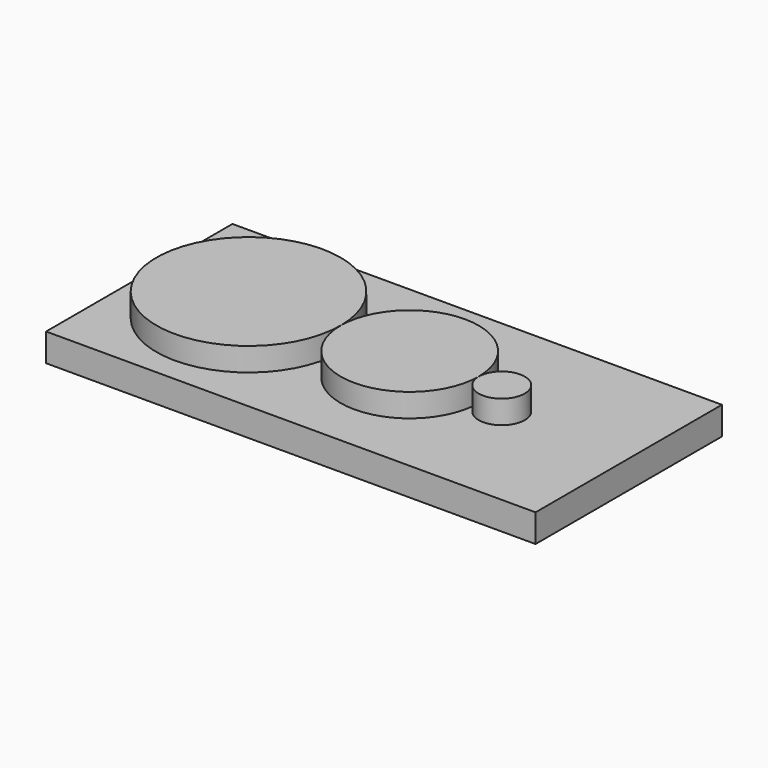
from build123d import *

# Parameters (mm, degrees)
F1_R     = 20.0025
F2_DEPTH = 5.08
F0_W     = 106.338516
F0_H     = 50.608118
F3_DEPTH = 6.07379


with BuildPart() as f2:
    # F1 (on face) → F2 (new body)
    with BuildSketch(Plane.XY):
        with BuildLine():
            ThreePointArc((30.580322, 0), (25.576522, 5.0038), (20.572722, 0))
            ThreePointArc((20.572722, 0), (25.576522, -5.0038), (30.580322, 0))
        make_face()
        with BuildLine():
            ThreePointArc((20.572722, 0), (5.574022, 14.9987), (-9.424678, 0))
            ThreePointArc((-9.424678, 0), (5.574022, -14.9987), (20.572722, 0))
        make_face()
        with Locations((-29.427178, 0)):
            Circle(F1_R)
    extrude(amount=F2_DEPTH)


with BuildPart() as f3:
    # F0 (on Top) → F3 (new body)
    with BuildSketch(Plane.XY):
        Rectangle(F0_W, F0_H)
    extrude(amount=-F3_DEPTH)


solid = Compound([f2.part, f3.part])
